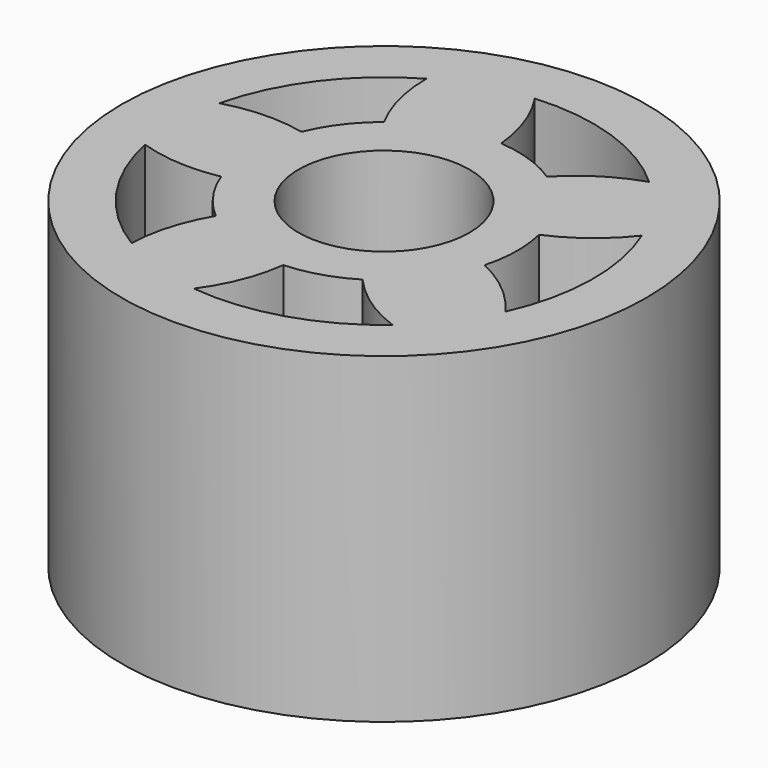
from build123d import *

# Parameters (mm, degrees)
F0_R     = 12.45
F0_R_2   = 4.06
F1_DEPTH = 15.29


with BuildPart() as f1:
    # F0 (on Top) → F1 (new body)
    with BuildSketch(Plane.XY):
        Circle(F0_R)
        with BuildLine():
            ThreePointArc((-5.200227, -8.482932), (-8.147706, -5.711164), (-9.747939, -1.995039))
            ThreePointArc((-9.747939, -1.995039), (-7.860658, -2.357112), (-5.942674, -2.23766))
            ThreePointArc((-5.942674, -2.23766), (-5.197891, -3.647524), (-4.125369, -4.827404))
            ThreePointArc((-4.125369, -4.827404), (-4.893916, -6.587211), (-5.200227, -8.482932))
        make_face(mode=Mode.SUBTRACT)
        Circle(F0_R_2, mode=Mode.SUBTRACT)
        with BuildLine():
            ThreePointArc((6.460789, -7.56708), (2.91386, -9.513775), (-1.114884, -9.887342))
            ThreePointArc((-1.114884, -9.887342), (-0.187331, -8.204317), (0.291754, -6.343294))
            ThreePointArc((0.291754, -6.343294), (1.862765, -6.070635), (3.316325, -5.415209))
            ThreePointArc((3.316325, -5.415209), (4.752506, -6.689951), (6.460789, -7.56708))
        make_face(mode=Mode.SUBTRACT)
        with BuildLine():
            ThreePointArc((9.193215, 3.806219), (9.94857, -0.168673), (9.058903, -4.115674))
            ThreePointArc((9.058903, -4.115674), (7.744881, -2.713435), (6.122988, -1.682711))
            ThreePointArc((6.122988, -1.682711), (6.349143, -0.104335), (6.174971, 1.48062))
            ThreePointArc((6.174971, 1.48062), (7.831127, 2.452594), (9.193215, 3.806219))
        make_face(mode=Mode.SUBTRACT)
        with BuildLine():
            ThreePointArc((-9.674706, 2.32434), (-7.949419, 5.984082), (-4.909674, 8.65434))
            ThreePointArc((-4.909674, 8.65434), (-4.670823, 6.747542), (-3.964528, 4.960344))
            ThreePointArc((-3.964528, 4.960344), (-5.075238, 3.816341), (-5.865943, 2.43171))
            ThreePointArc((-5.865943, 2.43171), (-7.777113, 2.618831), (-9.674706, 2.32434))
        make_face(mode=Mode.SUBTRACT)
        with BuildLine():
            ThreePointArc((-0.77907, 9.919453), (3.234695, 9.40953), (6.713594, 7.343715))
            ThreePointArc((6.713594, 7.343715), (4.97393, 6.527322), (3.492461, 5.303321))
            ThreePointArc((3.492461, 5.303321), (2.061221, 6.006152), (0.500017, 6.330283))
            ThreePointArc((0.500017, 6.330283), (0.087396, 8.205737), (-0.77907, 9.919453))
        make_face(mode=Mode.SUBTRACT)
    extrude(amount=F1_DEPTH)


solid = f1.part
